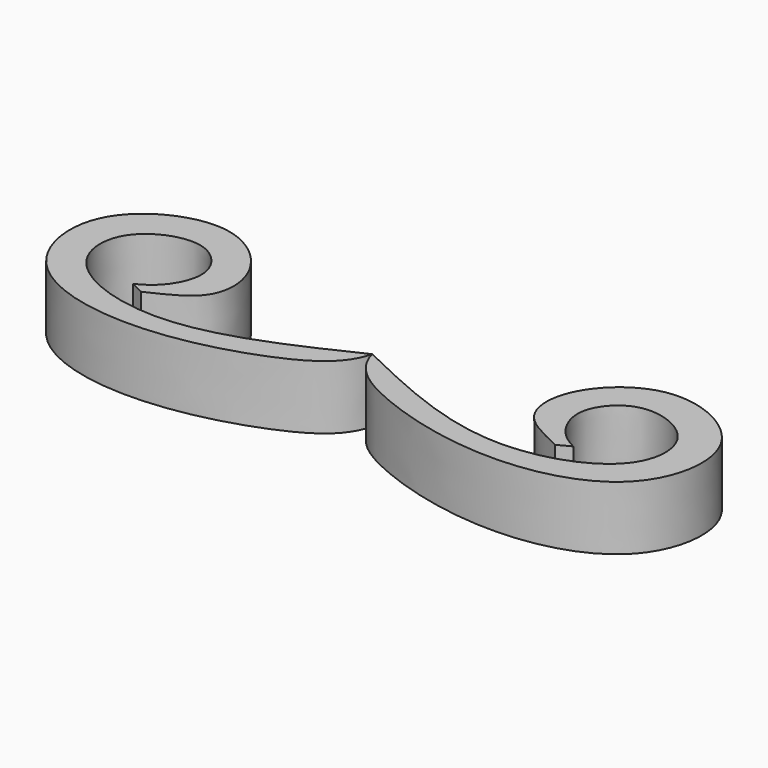
from build123d import *

# Parameters (mm, degrees)
F1_DEPTH = 6.35


with BuildPart() as f1:
    # F0 (on Top) → F1 (new body)
    with BuildSketch(Plane.XY):
        with BuildLine():
            add(Edge.make_bspline(
                [(0, 0), (5.7002780579, -2.7310994694), (15.7443703408, -7.5511548795), (28.3774127473, -3.0628077784), (28.5013927788, 4.5735175859), (21.7508723714, 7.1673726354), (18.2334337777, 3.2208039664), (19.1561316073, -0.2309213532), (20.6387454012, -1.7368740733), (21.9265837222, -2.3690818343)],
                knots=[0, 0, 0, 0, 0.2337872211, 0.4189351998, 0.5497766544, 0.683318122, 0.7980852524, 0.8959352997, 1, 1, 1, 1], degree=3))
            add(Edge.make_bspline(
                [(0, 0), (0.6352887954, -2.569537085), (5.828124562, -5.9160002702), (18.6924102527, -9.0128049879), (30.9663985412, -5.3380661183), (32.6611403448, 6.1974959723), (21.9990529382, 11.2527948616), (15.3328806664, 5.2648047536), (15.4384420681, -0.6500915711), (18.5821388147, -2.0633897603), (20.6387454012, -3.0302279629)],
                knots=[0, 0, 0, 0, 0.1203217848, 0.2787874394, 0.4253156327, 0.553906106, 0.6859924701, 0.8053792701, 0.899384531, 1, 1, 1, 1], degree=3))
            add(Edge.make_bspline(
                [(20.6387454012, -3.0302279629), (21.094854482, -2.8425806668), (21.4704746415, -2.5567291304), (21.9265837222, -2.3690818343)],
                knots=[0, 0, 0, 0, 1.4476331525, 1.4476331525, 1.4476331525, 1.4476331525], degree=3))
        make_face()
    extrude(amount=F1_DEPTH)


with BuildPart() as f1b:
    # F0 (on Top) → F1, piece 2 (new body)
    with BuildSketch(Plane.XY):
        with BuildLine():
            add(Edge.make_bspline(
                [(0, 0), (-0.6352887954, -2.569537085), (-5.828124562, -5.9160002702), (-18.6924102527, -9.0128049879), (-30.9663985412, -5.3380661183), (-32.6611403448, 6.1974959723), (-21.9990529382, 11.2527948616), (-15.3328806664, 5.2648047536), (-15.4384420681, -0.6500915711), (-18.5821388147, -2.0633897603), (-20.6387454012, -3.0302279629)],
                knots=[0, 0, 0, 0, 0.1203217848, 0.2787874394, 0.4253156327, 0.553906106, 0.6859924701, 0.8053792701, 0.899384531, 1, 1, 1, 1], degree=3))
            add(Edge.make_bspline(
                [(0, 0), (-5.7002780579, -2.7310994694), (-15.7443703408, -7.5511548795), (-28.3774127473, -3.0628077784), (-28.5013927788, 4.5735175859), (-21.7508723714, 7.1673726354), (-18.2334337777, 3.2208039664), (-19.1561316073, -0.2309213532), (-20.6387454012, -1.7368740733), (-21.9265837222, -2.3690818343)],
                knots=[0, 0, 0, 0, 0.2337872211, 0.4189351998, 0.5497766544, 0.683318122, 0.7980852524, 0.8959352997, 1, 1, 1, 1], degree=3))
            add(Edge.make_bspline(
                [(-20.6387454012, -3.0302279629), (-21.094854482, -2.8425806668), (-21.4704746415, -2.5567291304), (-21.9265837222, -2.3690818343)],
                knots=[0, 0, 0, 0, 1.4476331525, 1.4476331525, 1.4476331525, 1.4476331525], degree=3))
        make_face()
    extrude(amount=F1_DEPTH)


solid = Compound([f1.part, f1b.part])
